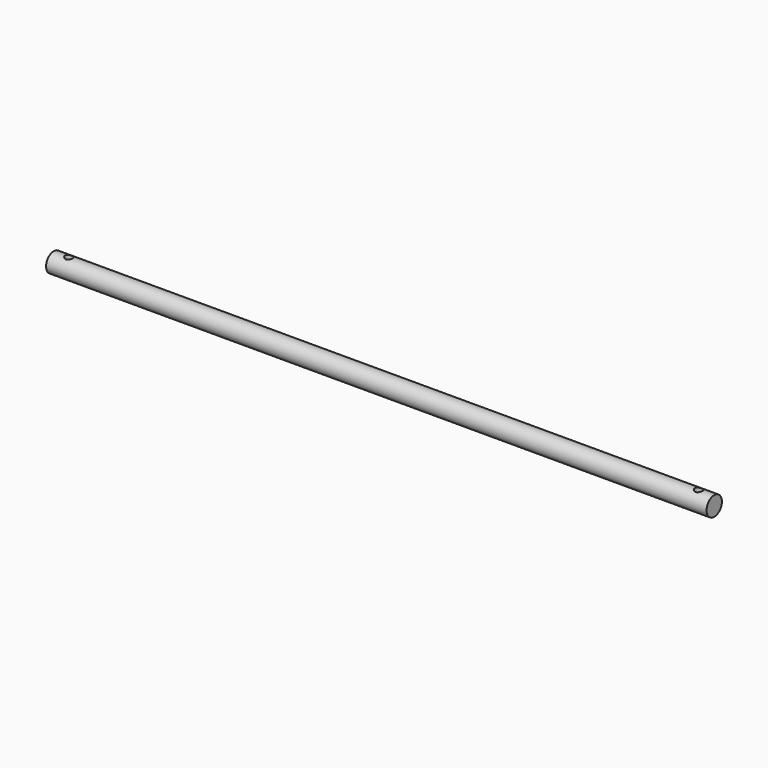
from build123d import *

# Parameters (mm, degrees)
F0_R          = 12.5
F1_DEPTH      = 860
F2_R          = 5
F3_DEPTH      = 12.501
F3_DEPTH_BACK = 12.501


with BuildPart() as f1:
    # F0 (on Right) → F1 (new body)
    with BuildSketch(Plane.YZ):
        Circle(F0_R)
    extrude(amount=F1_DEPTH)

    # F2 (on Top) → F3 (cut, two sides)
    with BuildSketch(Plane.XY) as f3_sk:
        with Locations((20, 0)):
            Circle(F2_R)
        with Locations((840, 0)):
            Circle(F2_R)
    extrude(amount=F3_DEPTH, mode=Mode.SUBTRACT)
    extrude(f3_sk.sketch, amount=-F3_DEPTH_BACK, mode=Mode.SUBTRACT)


solid = f1.part
